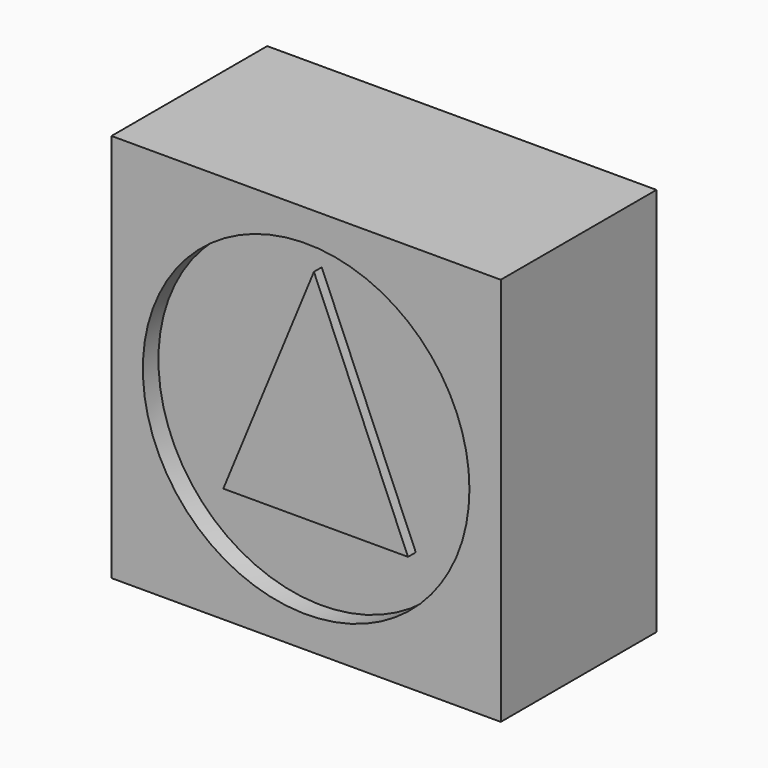
from build123d import *

# Parameters (mm, degrees)
F0_W     = 50.8
F0_H     = 50.8
F0_R     = 21.309013
F1_DEPTH = 25.4
F2_DEPTH = 22.86
F3_DEPTH = 24.13


with BuildPart() as f1:
    # F0 (on Front) → F1 (new body)
    with BuildSketch(Plane.XZ):
        with Locations((25.4, 25.4)):
            Rectangle(F0_W, F0_H)
        with Locations((25.4, 25.4)):
            Circle(F0_R, mode=Mode.SUBTRACT)
    extrude(amount=F1_DEPTH)

    # F0 (on Front) → F2 (join)
    with BuildSketch(Plane.XZ):
        with Locations((25.4, 25.4)):
            Circle(F0_R)
        Polygon((13.571316, 14.178988), (25.4, 42.942073), (37.675597, 14.178988), align=None, mode=Mode.SUBTRACT)
    extrude(amount=F2_DEPTH)

    # F0 (on Front) → F3 (join)
    with BuildSketch(Plane.XZ):
        Polygon((37.675597, 14.178988), (25.4, 42.942073), (13.571316, 14.178988), align=None)
    extrude(amount=F3_DEPTH)


solid = f1.part
